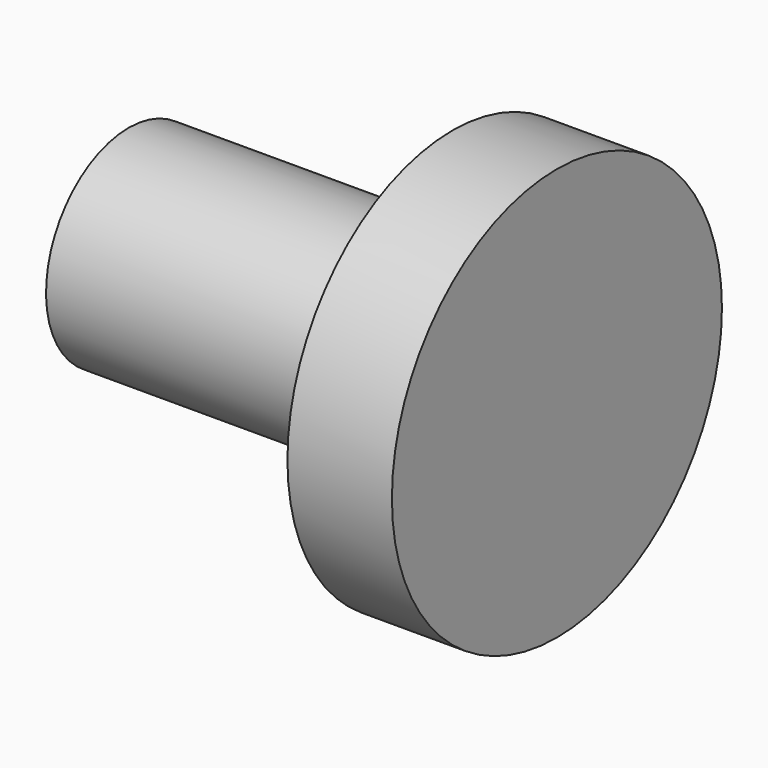
from build123d import *


with BuildPart() as f1:
    # F0 (on Front) → F1 (revolve)
    with BuildSketch(Plane.XZ):
        with BuildLine():
            Line((0, 19.971918), (0, 0))
            Line((0, 0), (82.761332, 0))
            Line((82.761332, 0), (82.761332, 19.971918))
            Line((82.761332, 19.971918), (82.761332, 39.863199))
            Line((82.761332, 39.863199), (62.566623, 39.863199))
            Line((62.566623, 39.863199), (62.566623, 24.971918))
            ThreePointArc((62.566623, 24.971918), (61.102157, 21.436384), (57.566623, 19.971918))
            Line((57.566623, 19.971918), (0, 19.971918))
        make_face()
    revolve(axis=Axis((-13.793555, 0, 0), (-1, 0, 0)))


solid = f1.part
